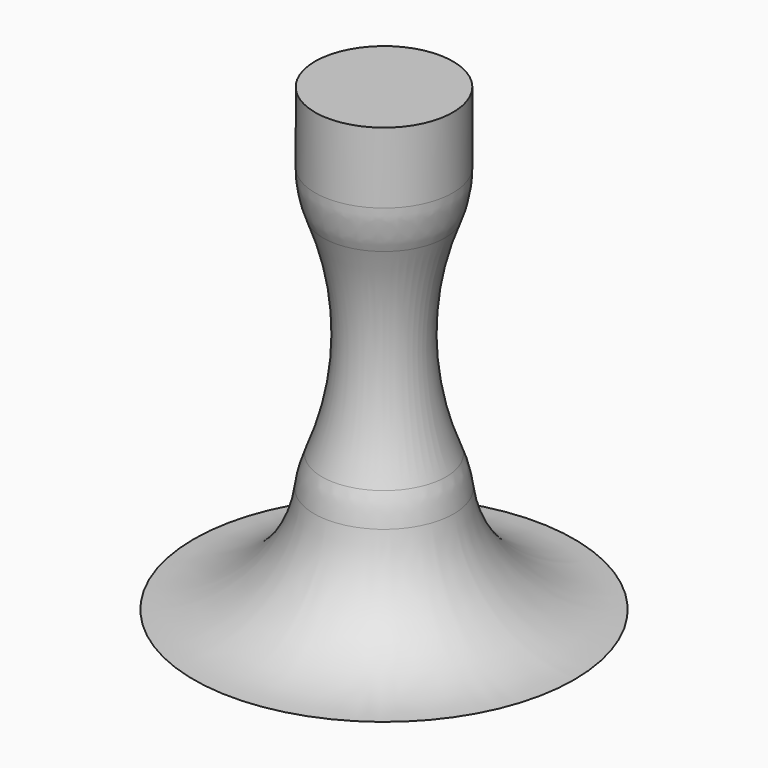
from build123d import *

# Parameters (mm, degrees)
F2_R = 5


with BuildPart() as f1:
    # F0 (on Front) → F1 (revolve)
    with BuildSketch(Plane.XZ):
        with BuildLine():
            Line((-3, 5.273568), (-3, 0))
            Line((-3, 0), (0, 0))
            Line((0, 0), (0, 20))
            Line((0, 20), (-3, 20))
            Line((-3, 20), (-3, 15.877838))
            ThreePointArc((-3, 15.877838), (-1.784763, 10.575703), (-3, 5.273568))
        make_face()
        with BuildLine():
            Line((-8.273568, 0), (-3, 0))
            Line((-3, 0), (-3, 5.273568))
            ThreePointArc((-3, 5.273568), (-4.544592, 1.544592), (-8.273568, 0))
        make_face()
    revolve(axis=Axis((0, 0, 10), (0, 0, -1)))

    # F2
    f2_edges = [f1.edges().sort_by_distance(p)[0] for p in [
        (3, 0, 15.877838),
        (3, 0, 5.273568),
    ]]
    fillet(f2_edges, radius=F2_R)


solid = f1.part
